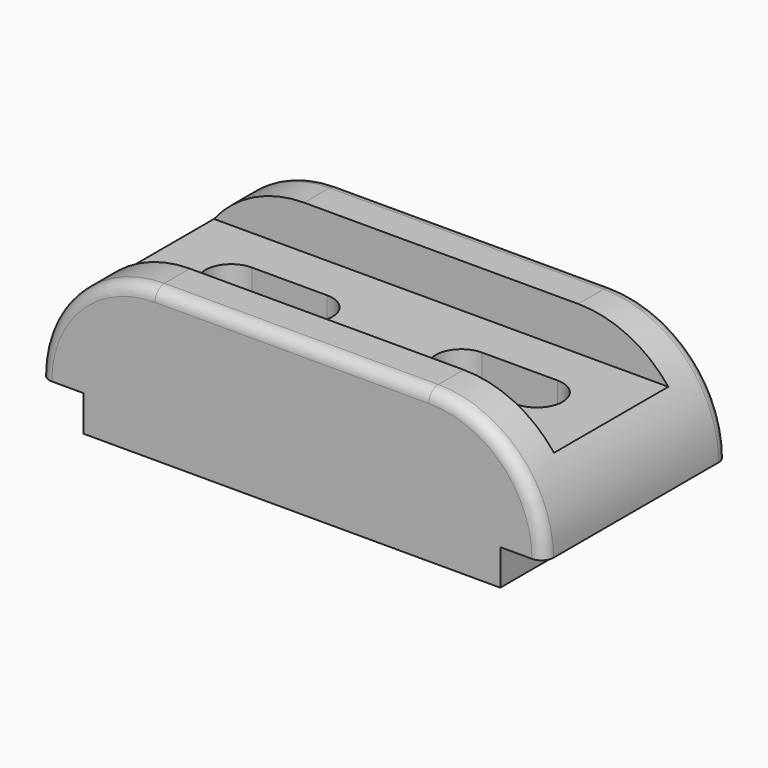
from build123d import *

# Parameters (mm, degrees)
F1_DEPTH = 29
F2_R     = 3
F3_W     = 36
F3_H     = 11
F4_DEPTH = 127.001
F6_DEPTH = 38.001


with BuildPart() as f1:
    # F0 (on Front) → F1 (new body, symmetric)
    with BuildSketch(Plane.XZ):
        with BuildLine():
            Line((11, 9), (11, 0))
            Line((11, 0), (116, 0))
            Line((116, 0), (116, 9))
            Line((116, 9), (127, 9))
            ThreePointArc((127, 9), (118.506097, 29.506097), (98, 38))
            Line((98, 38), (29, 38))
            ThreePointArc((29, 38), (8.493903, 29.506097), (0, 9))
            Line((0, 9), (11, 9))
        make_face()
    extrude(amount=F1_DEPTH, both=True)

    # F2
    f2_edges = [f1.edges().sort_by_distance(p)[0] for p in [
        (63.5, 29, 38),
        (63.5, -29, 38),
    ]]
    fillet(f2_edges, radius=F2_R)

    # F3 (on Right) → F4 (cut, through all)
    with BuildSketch(Plane.YZ):
        with Locations((0, 32.5)):
            Rectangle(F3_W, F3_H)
    extrude(amount=F4_DEPTH, mode=Mode.SUBTRACT)

    # F5 (on Top) → F6 (cut, through all)
    with BuildSketch(Plane.XY):
        with BuildLine():
            Line((44, 6.5), (25, 6.5))
            ThreePointArc((25, 6.5), (18.5, 0), (25, -6.5))
            Line((25, -6.5), (44, -6.5))
            ThreePointArc((44, -6.5), (50.5, 0), (44, 6.5))
        make_face()
        with BuildLine():
            Line((102, 6.5), (83, 6.5))
            ThreePointArc((83, 6.5), (76.5, 0), (83, -6.5))
            Line((83, -6.5), (102, -6.5))
            ThreePointArc((102, -6.5), (108.5, 0), (102, 6.5))
        make_face()
    extrude(amount=F6_DEPTH, mode=Mode.SUBTRACT)


solid = f1.part
